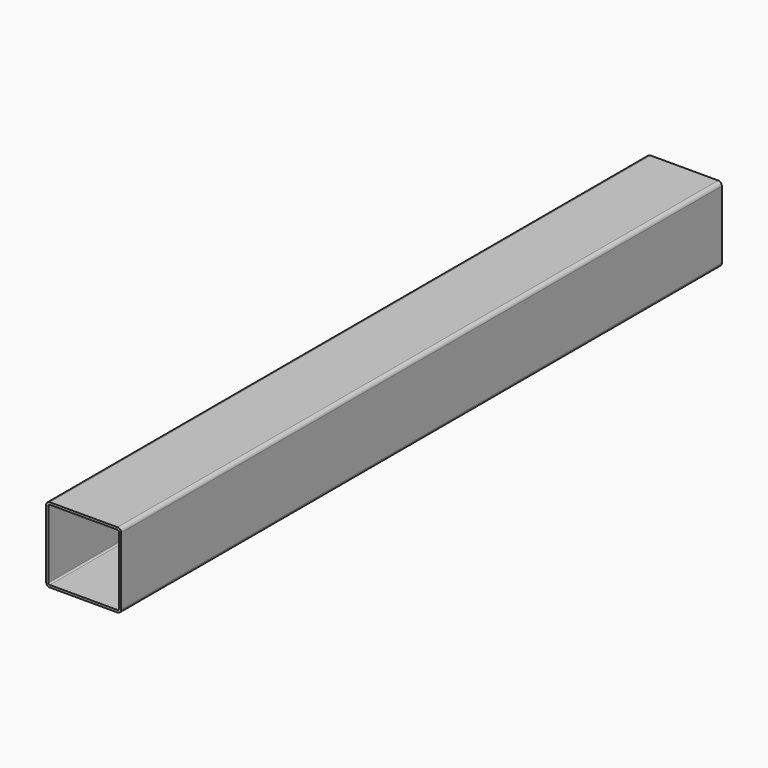
from build123d import *

# Parameters (mm, degrees)
F1_DEPTH = 1000


with BuildPart() as f1:
    # F0 (on Front) → F1 (new body)
    with BuildSketch(Plane.XZ):
        with BuildLine():
            ThreePointArc((50, 45), (48.535534, 48.535534), (45, 50))
            Line((45, 50), (-45, 50))
            ThreePointArc((-45, 50), (-48.535534, 48.535534), (-50, 45))
            Line((-50, 45), (-50, -45))
            ThreePointArc((-50, -45), (-48.535534, -48.535534), (-45, -50))
            Line((-45, -50), (45, -50))
            ThreePointArc((45, -50), (48.535534, -48.535534), (50, -45))
            Line((50, -45), (50, 45))
        make_face()
        with BuildLine():
            ThreePointArc((-47, 45), (-46.414214, 46.414214), (-45, 47))
            Line((-45, 47), (45, 47))
            ThreePointArc((45, 47), (46.414214, 46.414214), (47, 45))
            Line((47, 45), (47, -45))
            ThreePointArc((47, -45), (46.414214, -46.414214), (45, -47))
            Line((45, -47), (-45, -47))
            ThreePointArc((-45, -47), (-46.414214, -46.414214), (-47, -45))
            Line((-47, -45), (-47, 45))
        make_face(mode=Mode.SUBTRACT)
    extrude(amount=-F1_DEPTH)


solid = f1.part
